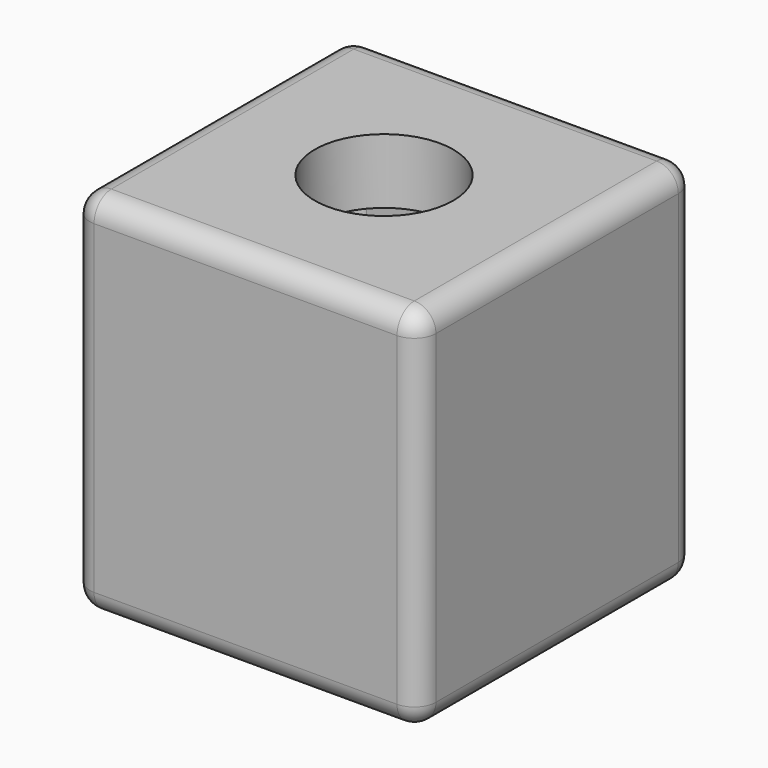
from build123d import *

# Parameters (mm, degrees)
F0_W     = 20.32
F0_H     = 20.32
F0_W_2   = 15.24
F0_H_2   = 15.24
F1_DEPTH = 3.81
F2_DEPTH = 17.78
F3_R     = 4.064
F4_DEPTH = 25.4
F5_R     = 1.27
F6_R     = 0.508


with BuildPart() as f1:
    # F0 (on Top) → F1 (new body)
    with BuildSketch(Plane.XY):
        Rectangle(F0_W, F0_H)
        Rectangle(F0_W_2, F0_H_2, mode=Mode.SUBTRACT)
        Rectangle(F0_W_2, F0_H_2)
    extrude(amount=F1_DEPTH)

    # F0 (on Top) → F2 (join)
    with BuildSketch(Plane.XY):
        Rectangle(F0_W, F0_H)
        Rectangle(F0_W_2, F0_H_2, mode=Mode.SUBTRACT)
    extrude(amount=-F2_DEPTH)

    # F3 (on Top) → F4 (cut)
    with BuildSketch(Plane.XY):
        Circle(F3_R)
    extrude(amount=F4_DEPTH, mode=Mode.SUBTRACT)

    # F5
    f5_edges = [f1.edges().sort_by_distance(p)[0] for p in [
        (-10.16, 0, 3.81),
        (0, 10.16, 3.81),
        (10.16, 0, 3.81),
        (0, -10.16, 3.81),
        (-10.16, 10.16, -6.985),
        (-10.16, -10.16, -6.985),
        (-10.16, 0, -17.78),
        (10.16, 10.16, -6.985),
        (10.16, 0, -17.78),
        (10.16, -10.16, -6.985),
        (0, -10.16, -17.78),
        (0, 10.16, -17.78),
    ]]
    fillet(f5_edges, radius=F5_R)

    # F6
    f6_edges = [f1.edges().sort_by_distance(p)[0] for p in [
        (-7.62, -7.62, -8.89),
        (7.62, -7.62, -8.89),
        (7.62, 7.62, -8.89),
        (-7.62, 7.62, -8.89),
    ]]
    fillet(f6_edges, radius=F6_R)


solid = f1.part
